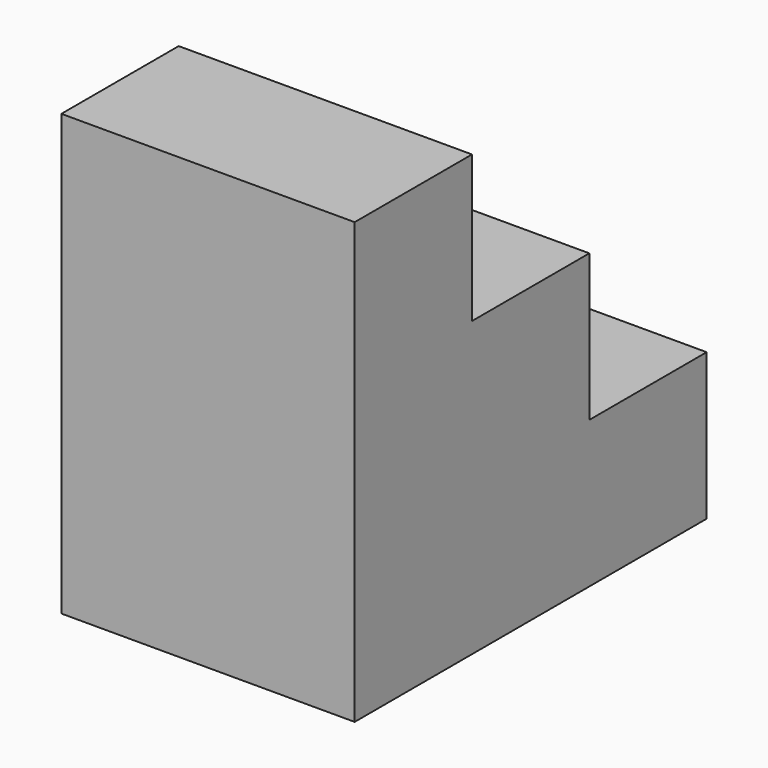
from build123d import *

# Parameters (mm, degrees)
F0_W      = 50.8
F0_H      = 76.2
F1_DEPTH  = 25.4
F2_W      = 50.8
F2_H      = 50.8
F1_FACE_W = 50.8
F1_FACE_H = 76.2
F3_DEPTH  = 25.4
F4_W      = 50.8
F4_H      = 25.4
F5_DEPTH  = 50.8


with BuildPart() as f1:
    # F0 (on Front) → F1 (new body)
    with BuildSketch(Plane.XZ):
        with Locations((25.4, 38.1)):
            Rectangle(F0_W, F0_H)
    extrude(amount=F1_DEPTH)

    # F2 (on Front) + F1_face (on face) → F3 (join)
    with BuildSketch(Plane.XZ):
        with Locations((25.4, 25.4)):
            Rectangle(F2_W, F2_H)
    with BuildSketch(Plane(origin=(25.4, -25.4, 38.1), x_dir=(1, 0, 0), z_dir=(0, -1, 0))):
        Rectangle(F1_FACE_W, F1_FACE_H)
    extrude(amount=-F3_DEPTH)

    # F4 (on Front) → F5 (join)
    with BuildSketch(Plane.XZ):
        with Locations((25.4, 12.7)):
            Rectangle(F4_W, F4_H)
    extrude(amount=-F5_DEPTH)


solid = f1.part
